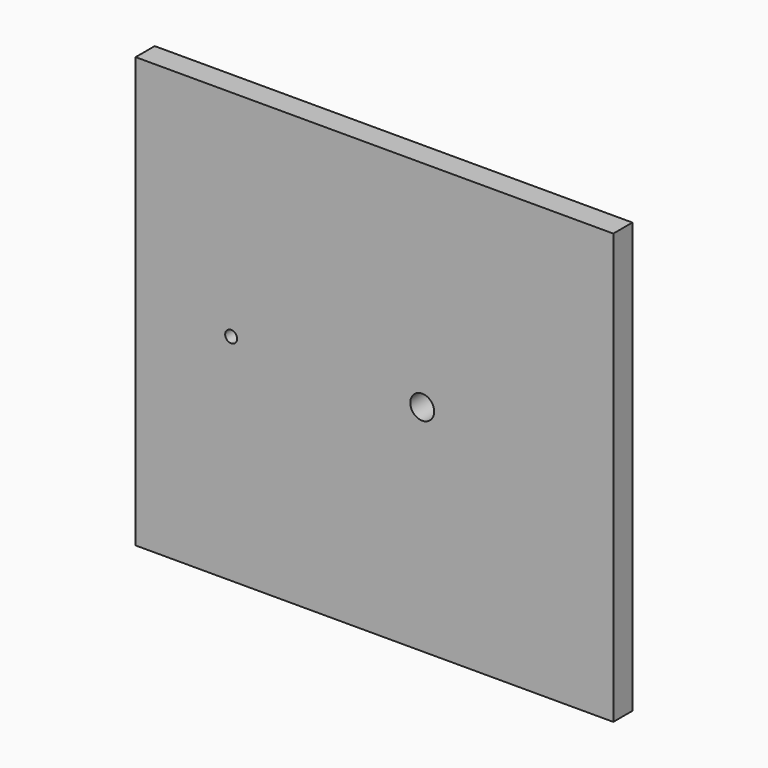
from build123d import *

# Parameters (mm, degrees)
F1_DEPTH = 3.175


with BuildPart() as f1:
    # F0 (on Front) → F1 (new body)
    with BuildSketch(Plane.XZ):
        with BuildLine():
            Line((6.068683, 0.497683), (6.068683, 29.072683))
            Line((6.068683, 29.072683), (-57.431317, 29.072683))
            Line((-57.431317, 29.072683), (-57.431317, 0.497683))
            Line((-57.431317, 0.497683), (-45.525067, 0.497683))
            ThreePointArc((-45.525067, 0.497683), (-44.731317, 1.291433), (-43.937567, 0.497683))
            Line((-43.937567, 0.497683), (-20.918817, 0.497683))
            ThreePointArc((-20.918817, 0.497683), (-19.331317, 2.085183), (-17.743817, 0.497683))
            Line((-17.743817, 0.497683), (6.068683, 0.497683))
        make_face()
        with BuildLine():
            Line((6.068683, -28.077317), (6.068683, 0.497683))
            Line((6.068683, 0.497683), (-17.743817, 0.497683))
            ThreePointArc((-17.743817, 0.497683), (-19.331317, -1.089817), (-20.918817, 0.497683))
            Line((-20.918817, 0.497683), (-43.937567, 0.497683))
            ThreePointArc((-43.937567, 0.497683), (-44.731317, -0.296067), (-45.525067, 0.497683))
            Line((-45.525067, 0.497683), (-57.431317, 0.497683))
            Line((-57.431317, 0.497683), (-57.431317, -28.077317))
            Line((-57.431317, -28.077317), (6.068683, -28.077317))
        make_face()
    extrude(amount=F1_DEPTH)


solid = f1.part
